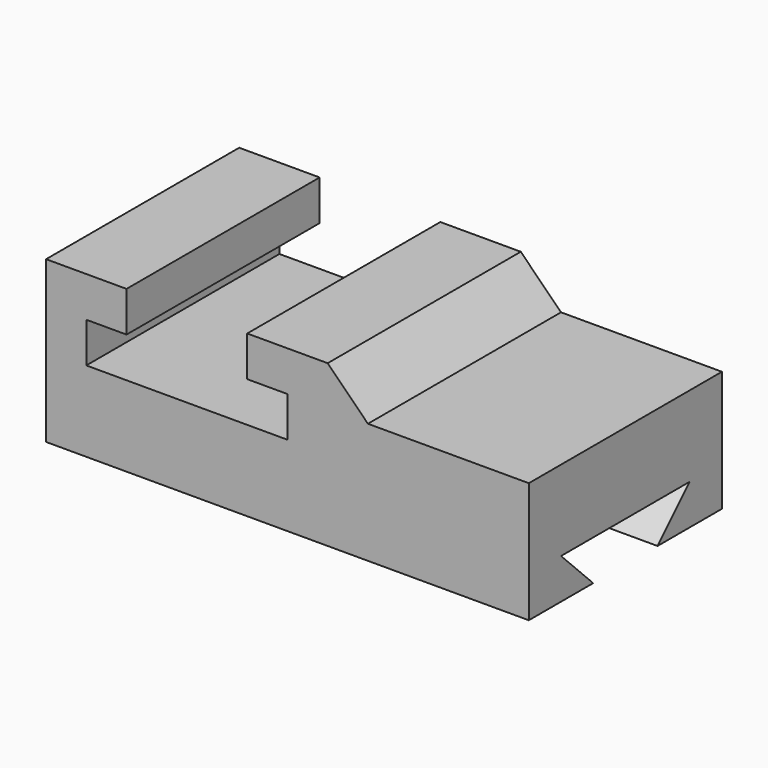
from build123d import *

# Parameters (mm, degrees)
F0_W     = 152.4
F0_H     = 50.8
F1_DEPTH = 76.2
F3_DEPTH = 76.2
F5_DEPTH = 76.2
F7_DEPTH = 152.4


with BuildPart() as f1:
    # F0 (on Front) → F1 (new body)
    with BuildSketch(Plane.XZ):
        with Locations((76.2, -25.4)):
            Rectangle(F0_W, F0_H)
    extrude(amount=F1_DEPTH)

    # F2 (on face) → F3 (cut)
    with BuildSketch(Plane.XZ.offset(76.2)):
        Polygon((152.4, -12.7), (152.4, 0), (88.9, 0), (101.6, -12.7), align=None)
    extrude(amount=-F3_DEPTH, mode=Mode.SUBTRACT)

    # F4 (on face) → F5 (cut)
    with BuildSketch(Plane.XZ.offset(76.2)):
        Polygon((63.5, 0), (25.4, 0), (25.4, -12.7), (12.7, -12.7), (12.7, -25.4), (76.2, -25.4), (76.2, -12.7), (63.5, -12.7), align=None)
    extrude(amount=-F5_DEPTH, mode=Mode.SUBTRACT)

    # F6 (on face) → F7 (cut)
    with BuildSketch(Plane.YZ.offset(152.4)):
        Polygon((-63.497171, -38.1), (-50.8, -50.8), (-25.4, -50.8), (-12.691214, -38.1), (-25.4, -38.1), (-50.8, -38.1), align=None)
    extrude(amount=-F7_DEPTH, mode=Mode.SUBTRACT)


solid = f1.part
